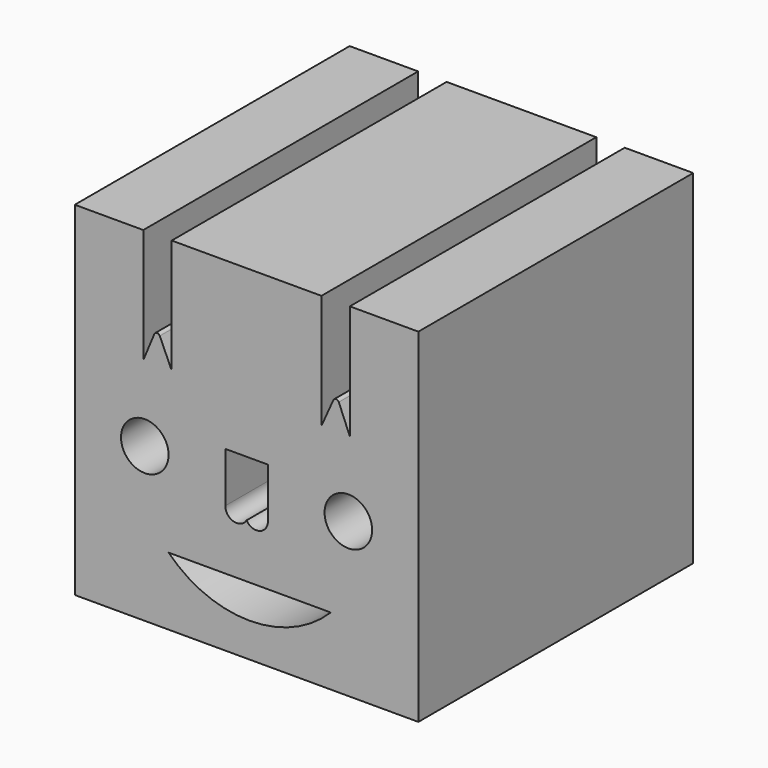
from build123d import *

# Parameters (mm, degrees)
F0_R     = 2.637924
F1_DEPTH = 38.1
F2_DEPTH = 19.05


with BuildPart() as f1:
    # F0 (on Front) → F1 (new body)
    with BuildSketch(Plane.XZ):
        with BuildLine():
            Line((-11.453714, 19.05), (-19.05, 19.05))
            Line((-19.05, 19.05), (-19.05, -19.05))
            Line((-19.05, -19.05), (19.05, -19.05))
            Line((19.05, -19.05), (19.05, 19.05))
            Line((19.05, 19.05), (11.453714, 19.05))
            Line((11.453714, 19.05), (11.453714, 6.35))
            Line((11.453714, 6.35), (10.227945, 9.297051))
            ThreePointArc((10.227945, 9.297051), (9.928561, 9.499715), (9.623805, 9.305221))
            Line((9.623805, 9.305221), (8.299793, 6.35))
            Line((8.299793, 6.35), (8.299793, 19.05))
            Line((8.299793, 19.05), (0, 19.05))
            Line((0, 19.05), (-8.299793, 19.05))
            Line((-8.299793, 19.05), (-8.299793, 6.35))
            Line((-8.299793, 6.35), (-9.623805, 9.305221))
            ThreePointArc((-9.623805, 9.305221), (-9.928561, 9.499715), (-10.227945, 9.297051))
            Line((-10.227945, 9.297051), (-11.453714, 6.35))
            Line((-11.453714, 6.35), (-11.453714, 19.05))
        make_face()
        with Locations((-11.287717, -1.99195)):
            Circle(F0_R, mode=Mode.SUBTRACT)
        with BuildLine():
            ThreePointArc((9.332039, -11.526389), (0.341904, -15.257474), (-8.648231, -11.526389))
            Line((-8.648231, -11.526389), (9.332039, -11.526389))
        make_face(mode=Mode.SUBTRACT)
        with BuildLine():
            Line((-2.361556, 0.645974), (0, 0.645974))
            Line((0, 0.645974), (2.361556, 0.645974))
            Line((2.361556, 0.645974), (2.361556, -4.915977))
            ThreePointArc((2.361556, -4.915977), (1.428174, -6.140554), (0, -5.565134))
            ThreePointArc((0, -5.565134), (-1.428174, -6.140554), (-2.361556, -4.915977))
            Line((-2.361556, -4.915977), (-2.361556, 0.645974))
        make_face(mode=Mode.SUBTRACT)
        with Locations((11.287717, -1.99195)):
            Circle(F0_R, mode=Mode.SUBTRACT)
    extrude(amount=F1_DEPTH)

    # F0 (on Front) → F2 (join)
    with BuildSketch(Plane.XZ):
        with Locations((-11.287717, -1.99195)):
            Circle(F0_R)
        with Locations((11.287717, -1.99195)):
            Circle(F0_R)
    extrude(amount=F2_DEPTH)


solid = f1.part
